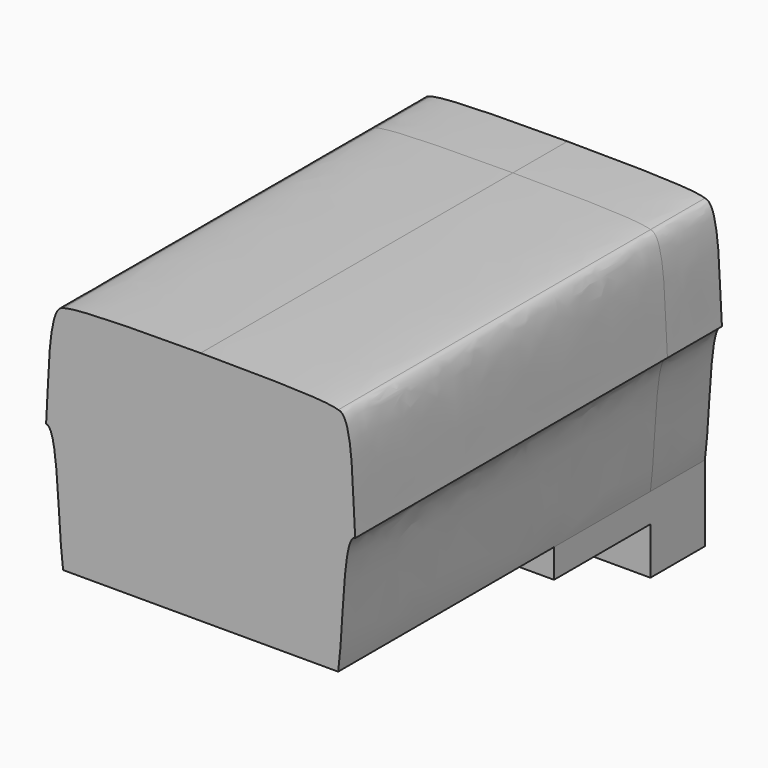
from build123d import *

# Parameters (mm, degrees)
F1_DEPTH = 260
F2_DEPTH = 260
F0_W     = 1050
F0_H     = 180
F3_DEPTH = 260
F4_DEPTH = 1490
F5_DEPTH = 460


with BuildPart() as f1:
    # F0 (on Front) → F1 (new body)
    with BuildSketch(Plane.XZ):
        with BuildLine():
            Line((-519.379077, -442.715838), (5.620923, -442.715838))
            Line((5.620923, -442.715838), (530.620923, -442.715838))
            add(Edge.make_bspline(
                [(530.620923, -442.715838), (552.28759, -286.049171), (547.647588, 27.284162), (595.620923, 27.284162)],
                knots=[0, 0, 0, 0, 474.473392, 474.473392, 474.473392, 474.473392], degree=3))
            add(Edge.make_bspline(
                [(595.620923, 27.284162), (584.550135, 154.130891), (591.930621, 434.590191), (530.620923, 437.284162)],
                knots=[0, 0, 0, 0, 415.120464, 415.120464, 415.120464, 415.120464], degree=3))
            add(Edge.make_bspline(
                [(530.620923, 437.284162), (484.913282, 456.731707), (173.086815, 456.731707), (5.620923, 457.284162)],
                knots=[0, 0, 0, 0, 525.380814, 525.380814, 525.380814, 525.380814], degree=3))
            add(Edge.make_bspline(
                [(-519.379077, 437.284162), (-473.671436, 456.731707), (-161.844969, 456.731707), (5.620923, 457.284162)],
                knots=[0, 0, 0, 0, 525.380814, 525.380814, 525.380814, 525.380814], degree=3))
            add(Edge.make_bspline(
                [(-584.379077, 27.284162), (-573.308289, 154.130891), (-580.688775, 434.590191), (-519.379077, 437.284162)],
                knots=[0, 0, 0, 0, 415.120464, 415.120464, 415.120464, 415.120464], degree=3))
            add(Edge.make_bspline(
                [(-519.379077, -442.715838), (-541.045744, -286.049171), (-536.405742, 27.284162), (-584.379077, 27.284162)],
                knots=[0, 0, 0, 0, 474.473392, 474.473392, 474.473392, 474.473392], degree=3))
        make_face()
    extrude(amount=-F1_DEPTH)

    # F0 (on Front) → F2 (join)
    with BuildSketch(Plane.XZ):
        Polygon((530.620923, -442.715838), (5.620923, -442.715838), (-519.379077, -442.715838), (-519.379077, -552.715838), (530.620923, -552.715838), align=None)
    extrude(amount=-F2_DEPTH)

    # F0 (on Front) → F3 (join)
    with BuildSketch(Plane.XZ):
        with Locations((5.620923, -642.715838)):
            Rectangle(F0_W, F0_H)
    extrude(amount=-F3_DEPTH)

    # F0 (on Front) → F4 (join)
    with BuildSketch(Plane.XZ):
        with BuildLine():
            Line((-519.379077, -442.715838), (5.620923, -442.715838))
            Line((5.620923, -442.715838), (530.620923, -442.715838))
            add(Edge.make_bspline(
                [(530.620923, -442.715838), (552.28759, -286.049171), (547.647588, 27.284162), (595.620923, 27.284162)],
                knots=[0, 0, 0, 0, 474.473392, 474.473392, 474.473392, 474.473392], degree=3))
            add(Edge.make_bspline(
                [(595.620923, 27.284162), (584.550135, 154.130891), (591.930621, 434.590191), (530.620923, 437.284162)],
                knots=[0, 0, 0, 0, 415.120464, 415.120464, 415.120464, 415.120464], degree=3))
            add(Edge.make_bspline(
                [(530.620923, 437.284162), (484.913282, 456.731707), (173.086815, 456.731707), (5.620923, 457.284162)],
                knots=[0, 0, 0, 0, 525.380814, 525.380814, 525.380814, 525.380814], degree=3))
            add(Edge.make_bspline(
                [(-519.379077, 437.284162), (-473.671436, 456.731707), (-161.844969, 456.731707), (5.620923, 457.284162)],
                knots=[0, 0, 0, 0, 525.380814, 525.380814, 525.380814, 525.380814], degree=3))
            add(Edge.make_bspline(
                [(-584.379077, 27.284162), (-573.308289, 154.130891), (-580.688775, 434.590191), (-519.379077, 437.284162)],
                knots=[0, 0, 0, 0, 415.120464, 415.120464, 415.120464, 415.120464], degree=3))
            add(Edge.make_bspline(
                [(-519.379077, -442.715838), (-541.045744, -286.049171), (-536.405742, 27.284162), (-584.379077, 27.284162)],
                knots=[0, 0, 0, 0, 474.473392, 474.473392, 474.473392, 474.473392], degree=3))
        make_face()
    extrude(amount=F4_DEPTH)

    # F0 (on Front) → F5 (join)
    with BuildSketch(Plane.XZ):
        Polygon((530.620923, -442.715838), (5.620923, -442.715838), (-519.379077, -442.715838), (-519.379077, -552.715838), (530.620923, -552.715838), align=None)
    extrude(amount=F5_DEPTH)


solid = f1.part
